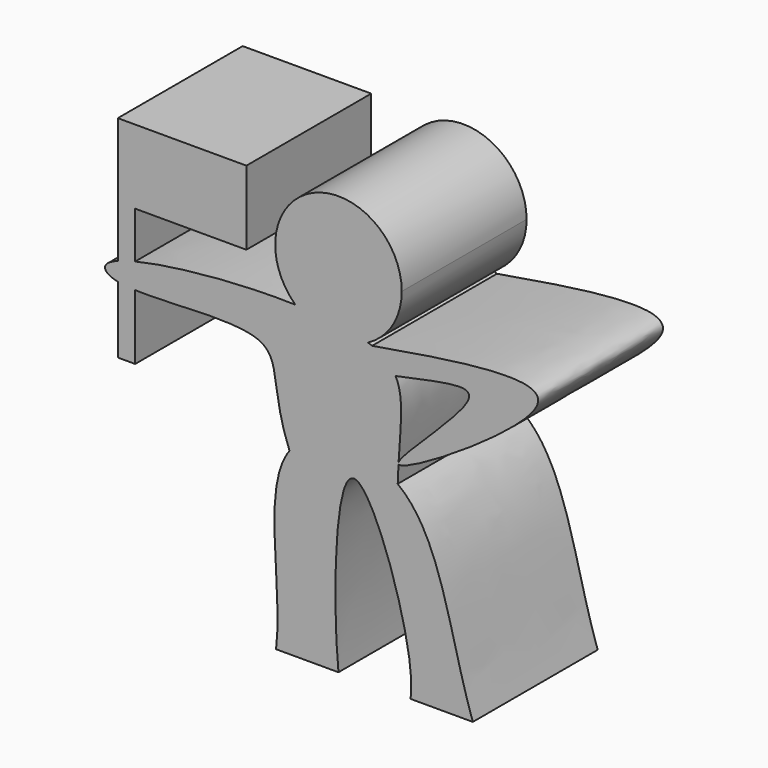
from build123d import *

# Parameters (mm, degrees)
F0_W     = 3.5634012893
F0_H     = 2.3720003664
F1_DEPTH = 5


with BuildPart() as f1:
    # F0 (on Front) → F1 (new body)
    with BuildSketch(Plane.XZ):
        with BuildLine():
            Line((-2, 0), (0, 0))
            add(Edge.make_bspline(
                [(0, 0), (-0.1836561132, 1.7094361829), (-0.1397413061, 9.7580692578), (2.5518890591, 1.2595293557), (2.3045632429, 0)],
                knots=[0, 0, 0, 0, 0.4944254575, 1, 1, 1, 1], degree=3))
            Line((2.3045632429, 0), (4.3045632429, 0))
            add(Edge.make_bspline(
                [(1.898295837, 5.931569832), (3.3228321005, 4.8468001157), (3.5423423469, 2.2009662159), (4.3045632429, 0)],
                knots=[0.627484657, 0.627484657, 0.627484657, 0.627484657, 1, 1, 1, 1], degree=3))
            add(Edge.make_bspline(
                [(-1.5685537924, 5.7355813877), (-0.8538090003, 6.6826607519), (0.8490885432, 6.7305303973), (1.898295837, 5.931569832)],
                knots=[0.3531176051, 0.3531176051, 0.3531176051, 0.3531176051, 0.627484657, 0.627484657, 0.627484657, 0.627484657], degree=3))
            add(Edge.make_bspline(
                [(-2, 0), (-1.77153203, 1.8082654117), (-2.4884491206, 4.5166653604), (-1.5685537924, 5.7355813877)],
                knots=[0, 0, 0, 0, 0.3531176051, 0.3531176051, 0.3531176051, 0.3531176051], degree=3))
        make_face()
        with BuildLine():
            add(Edge.make_bspline(
                [(-1.5685537924, 5.7355813877), (-2.1986037273, 7.3149230589), (-1.4040608509, 9.1362467506), (-5.3149314083, 8.6162903235), (-6.5138074569, 8.659985655)],
                knots=[0, 0, 0, 0, 0.1835397267, 0.372551207, 0.372551207, 0.372551207, 0.372551207], degree=3))
            add(Edge.make_bspline(
                [(-1.5685537924, 5.7355813877), (-0.8538090003, 6.6826607519), (0.8490885432, 6.7305303973), (1.898295837, 5.931569832)],
                knots=[0.3531176051, 0.3531176051, 0.3531176051, 0.3531176051, 0.627484657, 0.627484657, 0.627484657, 0.627484657], degree=3))
            add(Edge.make_bspline(
                [(1.9229257877, 6.4971952265), (1.9126104325, 6.3173946518), (1.903779138, 6.1289676696), (1.898295837, 5.931569832)],
                knots=[0.9801694628, 0.9801694628, 0.9801694628, 0.9801694628, 1, 1, 1, 1], degree=3))
            add(Edge.make_bspline(
                [(1.9229257877, 6.4971952265), (1.9141740763, 6.5088301842), (1.9156850526, 6.5277113359), (1.9261891554, 6.5529953329)],
                knots=[0.577436763, 0.577436763, 0.577436763, 0.577436763, 0.5928976619, 0.5928976619, 0.5928976619, 0.5928976619], degree=3))
            add(Edge.make_bspline(
                [(1.8293032252, 8.9529328765), (2.1069112235, 8.4276675068), (1.9918291417, 7.6549231128), (1.9261891554, 6.5529953329)],
                knots=[0.8553520328, 0.8553520328, 0.8553520328, 0.8553520328, 0.978107761, 0.978107761, 0.978107761, 0.978107761], degree=3))
            add(Edge.make_bspline(
                [(1.0782698656, 9.5595878301), (1.4596732733, 9.4110932651), (1.6923053765, 9.2121481228), (1.8293032252, 8.9529328765)],
                knots=[0.7947728319, 0.7947728319, 0.7947728319, 0.7947728319, 0.8553520328, 0.8553520328, 0.8553520328, 0.8553520328], degree=3))
            add(Edge.make_bspline(
                [(0.9437969367, 9.6078676818), (0.9904450196, 9.5924058566), (1.0353015402, 9.576317001), (1.0782698656, 9.5595878301)],
                knots=[0.7879480717, 0.7879480717, 0.7879480717, 0.7879480717, 0.7947728319, 0.7947728319, 0.7947728319, 0.7947728319], degree=3))
            ThreePointArc((0.9437969367, 9.6078676818), (-0.2678500801, 9.3925558637), (-1.3808027632, 9.9177072682))
            add(Edge.make_bspline(
                [(-6.5138074569, 9.4688323455), (-5.3055520235, 9.7611397753), (-3.1719225069, 9.9688662745), (-1.3808027632, 9.9177072682)],
                knots=[0.5439344229, 0.5439344229, 0.5439344229, 0.5439344229, 0.7049021627, 0.7049021627, 0.7049021627, 0.7049021627], degree=3))
            Line((-6.5138074569, 9.4688323455), (-6.5138074569, 8.659985655))
        make_face()
        with BuildLine():
            Line((-6.5138074569, 6.5773790702), (-6.5138074569, 8.659985655))
            add(Edge.make_bspline(
                [(-6.5138074569, 8.659985655), (-6.7281794928, 8.667798854), (-6.9174435476, 8.6854435894), (-7.0701856166, 8.7181232441)],
                knots=[0.372551207, 0.372551207, 0.372551207, 0.372551207, 0.4063485089, 0.4063485089, 0.4063485089, 0.4063485089], degree=3))
            Line((-7.0701856166, 8.7181232441), (-7.0701856166, 6.5773790702))
            Line((-7.0701856166, 6.5773790702), (-6.5138074569, 6.5773790702))
        make_face()
        with BuildLine():
            add(Edge.make_bspline(
                [(-6.5138074569, 8.659985655), (-6.7281794928, 8.667798854), (-6.9174435476, 8.6854435894), (-7.0701856166, 8.7181232441)],
                knots=[0.372551207, 0.372551207, 0.372551207, 0.372551207, 0.4063485089, 0.4063485089, 0.4063485089, 0.4063485089], degree=3))
            Line((-6.5138074569, 8.659985655), (-6.5138074569, 9.4688323455))
            add(Edge.make_bspline(
                [(-7.0701856166, 9.3033018375), (-6.9198476576, 9.360551064), (-6.7319027313, 9.416069604), (-6.5138074569, 9.4688323455)],
                knots=[0.5148790573, 0.5148790573, 0.5148790573, 0.5148790573, 0.5439344229, 0.5439344229, 0.5439344229, 0.5439344229], degree=3))
            Line((-7.0701856166, 9.3033018375), (-7.0701856166, 8.7181232441))
        make_face()
        with BuildLine():
            add(Edge.make_bspline(
                [(1.9229257877, 6.4971952265), (1.9141740763, 6.5088301842), (1.9156850526, 6.5277113359), (1.9261891554, 6.5529953329)],
                knots=[0.577436763, 0.577436763, 0.577436763, 0.577436763, 0.5928976619, 0.5928976619, 0.5928976619, 0.5928976619], degree=3))
            add(Edge.make_bspline(
                [(1.9261891554, 6.5529953329), (1.9250867215, 6.5344882817), (1.923998234, 6.5158883752), (1.9229257877, 6.4971952265)],
                knots=[0.978107761, 0.978107761, 0.978107761, 0.978107761, 0.9801694628, 0.9801694628, 0.9801694628, 0.9801694628], degree=3))
        make_face()
        with BuildLine():
            add(Edge.make_bspline(
                [(1.9261891554, 6.5529953329), (1.9250867215, 6.5344882817), (1.923998234, 6.5158883752), (1.9229257877, 6.4971952265)],
                knots=[0.978107761, 0.978107761, 0.978107761, 0.978107761, 0.9801694628, 0.9801694628, 0.9801694628, 0.9801694628], degree=3))
            add(Edge.make_bspline(
                [(1.0782698656, 9.5595878301), (4.0481531599, 10.0701912701), (9.609540077, 10.9247415729), (2.0872194249, 6.2787751448), (1.9229257877, 6.4971952265)],
                knots=[0, 0, 0, 0, 0.2871932674, 0.577436763, 0.577436763, 0.577436763, 0.577436763], degree=3))
            add(Edge.make_bspline(
                [(1.0782698656, 9.5595878301), (1.4596732733, 9.4110932651), (1.6923053765, 9.2121481228), (1.8293032252, 8.9529328765)],
                knots=[0.7947728319, 0.7947728319, 0.7947728319, 0.7947728319, 0.8553520328, 0.8553520328, 0.8553520328, 0.8553520328], degree=3))
            add(Edge.make_bspline(
                [(1.9261891554, 6.5529953329), (2.0726362175, 6.9055020769), (5.6506443881, 9.9217752461), (3.1918898004, 9.2252642405), (1.8293032252, 8.9529328765)],
                knots=[0.5928976619, 0.5928976619, 0.5928976619, 0.5928976619, 0.8084518359, 1, 1, 1, 1], degree=3))
        make_face()
        with BuildLine():
            add(Edge.make_bspline(
                [(-7.0701856166, 8.7181232441), (-7.0925674088, 8.7229119002), (-7.4335820034, 8.8036195657), (-7.6231094084, 9.0330063205), (-7.2271410881, 9.2435326388), (-7.0701856166, 9.3033018375)],
                knots=[0.4063485089, 0.4063485089, 0.4063485089, 0.4063485089, 0.4113009375, 0.4845447449, 0.5148790573, 0.5148790573, 0.5148790573, 0.5148790573], degree=3))
            Line((-7.0701856166, 8.7181232441), (-7.0701856166, 9.3033018375))
        make_face()
        with BuildLine():
            add(Edge.make_bspline(
                [(-7.0701856166, 9.3033018375), (-6.9198476576, 9.360551064), (-6.7319027313, 9.416069604), (-6.5138074569, 9.4688323455)],
                knots=[0.5148790573, 0.5148790573, 0.5148790573, 0.5148790573, 0.5439344229, 0.5439344229, 0.5439344229, 0.5439344229], degree=3))
            Line((-6.5138074569, 9.4688323455), (-6.5138074569, 10.958660394))
            Line((-6.5138074569, 10.958660394), (-6.5138074569, 13.3306607604))
            Line((-6.5138074569, 13.3306607604), (-7.0701856166, 13.3306607604))
            Line((-7.0701856166, 13.3306607604), (-7.0701856166, 9.3033018375))
        make_face()
        with BuildLine():
            ThreePointArc((2.0273415276, 11.4021254703), (-0.8095538544, 13.2608175444), (-1.3808027632, 9.9177072682))
            add(Edge.make_bspline(
                [(-1.3808027632, 9.9177072682), (-0.4567345775, 9.891313494), (0.376167847, 9.796012214), (0.9437969367, 9.6078676818)],
                knots=[0.7049021627, 0.7049021627, 0.7049021627, 0.7049021627, 0.7879480717, 0.7879480717, 0.7879480717, 0.7879480717], degree=3))
            ThreePointArc((0.9437969367, 9.6078676818), (1.7354412109, 10.3540999587), (2.0273415276, 11.4021254703))
        make_face()
        with BuildLine():
            add(Edge.make_bspline(
                [(-1.3808027632, 9.9177072682), (-0.4567345775, 9.891313494), (0.376167847, 9.796012214), (0.9437969367, 9.6078676818)],
                knots=[0.7049021627, 0.7049021627, 0.7049021627, 0.7049021627, 0.7879480717, 0.7879480717, 0.7879480717, 0.7879480717], degree=3))
            ThreePointArc((-1.3808027632, 9.9177072682), (-0.2678500801, 9.3925558637), (0.9437969367, 9.6078676818))
        make_face()
        with Locations((-4.7321068123, 12.1446605772)):
            Rectangle(F0_W, F0_H)
    extrude(amount=F1_DEPTH)


solid = f1.part
